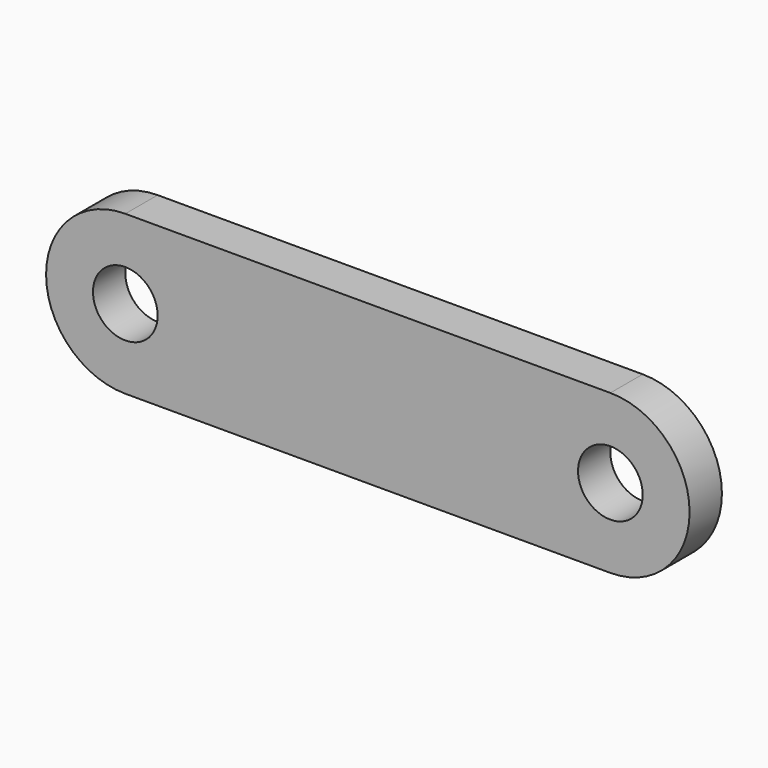
from build123d import *

# Parameters (mm, degrees)
F0_R     = 4
F1_DEPTH = 2.5


with BuildPart() as f1:
    # F0 (on Front) → F1 (new body, symmetric)
    with BuildSketch(Plane.XZ):
        with BuildLine():
            Line((30, 9.8), (0, 9.8))
            Line((0, 9.8), (-30, 9.8))
            ThreePointArc((-30, 9.8), (-39.8, 0), (-30, -9.8))
            Line((-30, -9.8), (0, -9.8))
            Line((0, -9.8), (30, -9.8))
            ThreePointArc((30, -9.8), (39.8, 0), (30, 9.8))
        make_face()
        with Locations((-30, 0)):
            Circle(F0_R, mode=Mode.SUBTRACT)
        with Locations((30, 0)):
            Circle(F0_R, mode=Mode.SUBTRACT)
    extrude(amount=F1_DEPTH, both=True)


solid = f1.part
